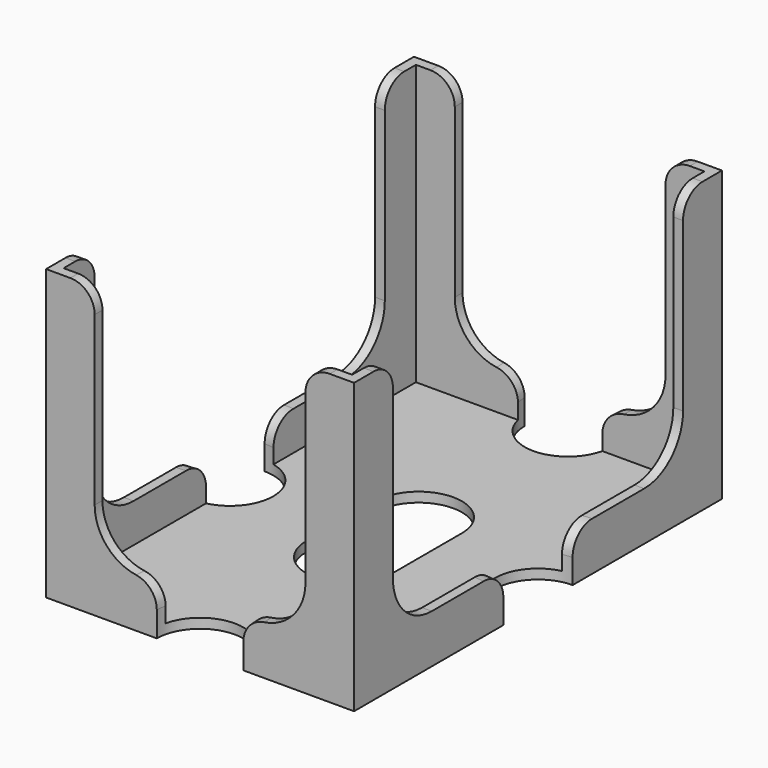
from build123d import *

# Parameters (mm, degrees)
SKETCH008_W          = 50.7
SKETCH008_H          = 75.7
PAD002_DEPTH         = 47.6
THICKNESS002_T       = -1.6
POCKET004_DEPTH      = 37.851
POCKET004_DEPTH_BACK = 37.851
POCKET003_DEPTH      = 25.351
POCKET003_DEPTH_BACK = 25.351
SKETCH006_R          = 7.125
POCKET005_DEPTH      = 0.001
POCKET005_DEPTH_BACK = 47.601
FILLET001_R          = 4


with BuildPart() as part:
    # Sketch008 → Pad002 (new body)
    with BuildSketch(Plane.XY):
        Rectangle(SKETCH008_W, SKETCH008_H)
    extrude(amount=PAD002_DEPTH)

    # Thickness002
    thickness002_openings = [part.faces().sort_by_distance(p)[0] for p in [
        (0, 0, 47.6),
    ]]
    offset(amount=THICKNESS002_T, openings=thickness002_openings, kind=Kind.INTERSECTION)

    # Sketch007 → Pocket004 (cut, two sides)
    with BuildSketch(Plane.XZ) as pocket004_sk:
        with BuildLine():
            Line((-17.35, 47.6), (17.35, 47.6))
            Line((17.35, 47.6), (17.35, 16))
            ThreePointArc((9.35, 8), (15.006854, 10.343146), (17.35, 16))
            Line((9.35, 8), (-9.35, 8))
            ThreePointArc((-17.35, 16), (-15.006854, 10.343146), (-9.35, 8))
            Line((-17.35, 16), (-17.35, 47.6))
        make_face()
    extrude(amount=-POCKET004_DEPTH, mode=Mode.SUBTRACT)
    extrude(pocket004_sk.sketch, amount=POCKET004_DEPTH_BACK, mode=Mode.SUBTRACT)

    # Sketch005 → Pocket003 (cut, two sides)
    with BuildSketch(Plane.YZ) as pocket003_sk:
        with BuildLine():
            Line((-29.85, 47.6), (29.85, 47.6))
            Line((29.85, 47.6), (29.85, 16))
            ThreePointArc((21.85, 8), (27.506854, 10.343146), (29.85, 16))
            Line((21.85, 8), (-21.85, 8))
            ThreePointArc((-29.85, 16), (-27.506854, 10.343146), (-21.85, 8))
            Line((-29.85, 16), (-29.85, 47.6))
        make_face()
    extrude(amount=-POCKET003_DEPTH, mode=Mode.SUBTRACT)
    extrude(pocket003_sk.sketch, amount=POCKET003_DEPTH_BACK, mode=Mode.SUBTRACT)

    # Sketch006 → Pocket005 (cut, two sides)
    with BuildSketch(Plane.XY) as pocket005_sk:
        with Locations((0, 37.85)):
            Circle(SKETCH006_R)
        with Locations((0, -37.85)):
            Circle(SKETCH006_R)
        with Locations((25.35, 0)):
            Circle(SKETCH006_R)
        with Locations((-25.35, 0)):
            Circle(SKETCH006_R)
        with BuildLine():
            ThreePointArc((7.125, 7.125), (0, 14.25), (-7.125, 7.125))
            Line((-7.125, 7.125), (-7.125, -7.125))
            ThreePointArc((-7.125, -7.125), (0, -14.25), (7.125, -7.125))
            Line((7.125, 7.125), (7.125, -7.125))
        make_face()
    extrude(amount=-POCKET005_DEPTH, mode=Mode.SUBTRACT)
    extrude(pocket005_sk.sketch, amount=POCKET005_DEPTH_BACK, mode=Mode.SUBTRACT)

    # Fillet001
    fillet001_edges = [part.edges().sort_by_distance(p)[0] for p in [
        (24.544843, -7.079361, 8),
        (24.544843, 7.079361, 8),
        (24.55, 29.85, 47.6),
        (17.35, 37.05, 47.6),
        (7.079361, 37.044843, 8),
        (-7.079361, 37.044843, 8),
        (-17.35, 37.05, 47.6),
        (-24.55, 29.85, 47.6),
        (-24.544843, 7.079361, 8),
        (-24.544843, -7.079361, 8),
        (-24.55, -29.85, 47.6),
        (-17.35, -37.05, 47.6),
        (-7.079361, -37.044843, 8),
        (7.079361, -37.044843, 8),
        (17.35, -37.05, 47.6),
        (24.55, -29.85, 47.6),
    ]]
    fillet(fillet001_edges, radius=FILLET001_R)


solid = part.part
